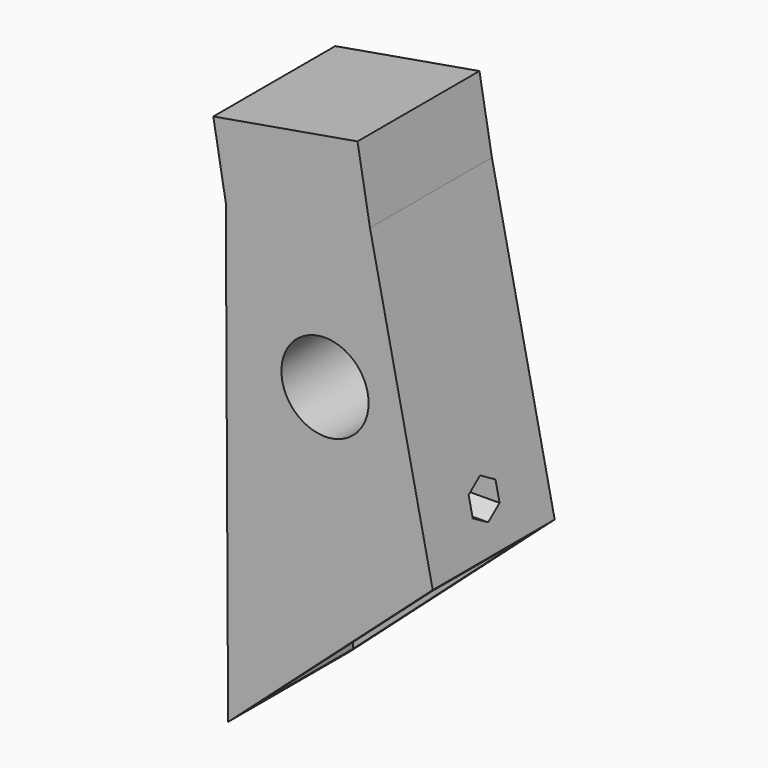
from build123d import *

# Parameters (mm, degrees)
F2_DEPTH = 25
F1_R     = 7.15
F3_DEPTH = 25.4
F6_DEPTH = 35.2
F7_T     = -2.5
F8_DEPTH = 12


with BuildPart() as f2:
    # F0 (on Front) → F2 (new body)
    with BuildSketch(Plane.XZ):
        Polygon((-15.0582233108, 4.0902668196), (-38.706164358, 0.000163102), (-38.330538716, -74.8110767319), (-4.764814752, -44.8387198881), align=None)
    extrude(amount=F2_DEPTH)

    # F1 (on Front) → F3 (cut)
    with BuildSketch(Plane.XZ):
        with Locations((-22.4353701932, -21.2910585503)):
            Circle(F1_R)
    extrude(amount=F3_DEPTH, mode=Mode.SUBTRACT)

    # F5 (on face) → F6 (cut, symmetric)
    with BuildSketch(Plane(origin=(-38.7051877725, 0, -0.1943379235), x_dir=(0, -1, 0), z_dir=(-0.9999873951, 0, -0.0050209154))):
        Polygon((15.2337295342, -35.6725638611), (12.4837295342, -34.0848506209), (9.7337295342, -35.6725638611), (9.7337295342, -38.8479903417), (12.4837295342, -40.435703582), (15.2337295342, -38.8479903417), align=None)
    extrude(amount=F6_DEPTH, both=True, mode=Mode.SUBTRACT)

    # F7
    f7_openings = [f2.faces().sort_by_distance(p)[0] for p in [
        (-21.547677, -12.5, -59.824898),
    ]]
    offset(amount=F7_T, openings=f7_openings, kind=Kind.INTERSECTION)

    # F8 (add): a face of the model
    f8_faces = [f2.faces().sort_by_distance(p)[0] for p in [
        (-26.8821938344, -12.5, 2.0452149608),
    ]]
    extrude(f8_faces, amount=F8_DEPTH)


solid = f2.part
